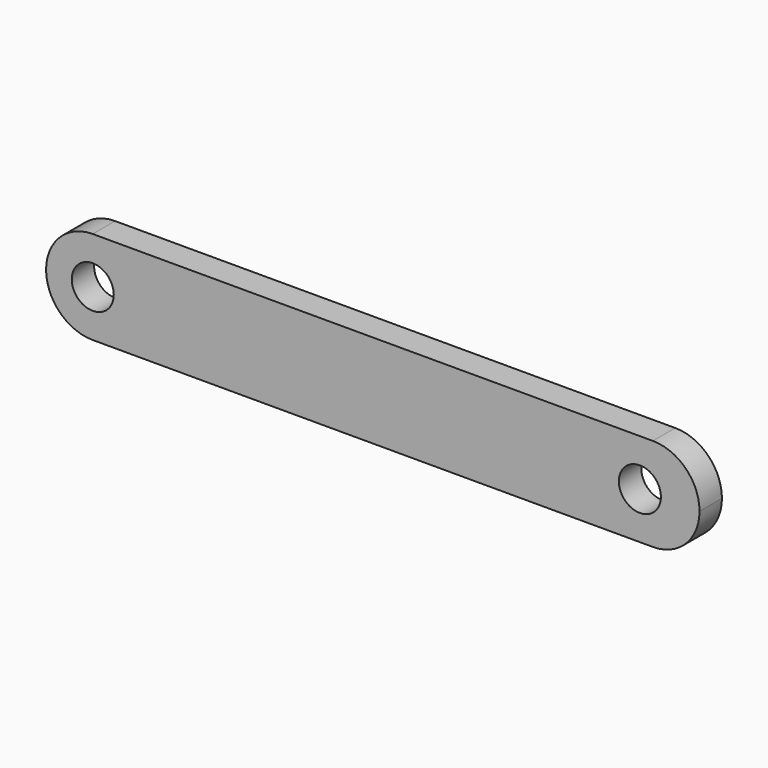
from build123d import *

# Parameters (mm, degrees)
F1_DEPTH = 30
F2_R     = 22.5
F3_DEPTH = 30


with BuildPart() as f1:
    # F0 (on Front) → F1 (new body)
    with BuildSketch(Plane.XZ):
        with BuildLine():
            ThreePointArc((-586.117893, 50), (-550.762554, 35.355339), (-536.117893, 0))
            ThreePointArc((-536.117893, 0), (-550.762554, -35.355339), (-586.117893, -50))
            Line((-586.117893, -50), (13.882107, -50))
            ThreePointArc((13.882107, -50), (-36.117893, 0), (13.882107, 50))
            Line((13.882107, 50), (-586.117893, 50))
        make_face()
        with BuildLine():
            ThreePointArc((63.882107, 0), (49.237446, 35.355339), (13.882107, 50))
            ThreePointArc((13.882107, 50), (-36.117893, 0), (13.882107, -50))
            ThreePointArc((13.882107, -50), (49.237446, -35.355339), (63.882107, 0))
        make_face()
        with BuildLine():
            ThreePointArc((-586.117893, -50), (-550.762554, -35.355339), (-536.117893, 0))
            ThreePointArc((-536.117893, 0), (-550.762554, 35.355339), (-586.117893, 50))
            ThreePointArc((-586.117893, 50), (-636.117893, 0), (-586.117893, -50))
        make_face()
    extrude(amount=F1_DEPTH)

    # F2 (on face) → F3 (cut, through all)
    with BuildSketch(Plane.XZ.offset(30)):
        with Locations((-586.117893, 0)):
            Circle(F2_R)
        Circle(F2_R)
    extrude(amount=-F3_DEPTH, mode=Mode.SUBTRACT)


solid = f1.part
